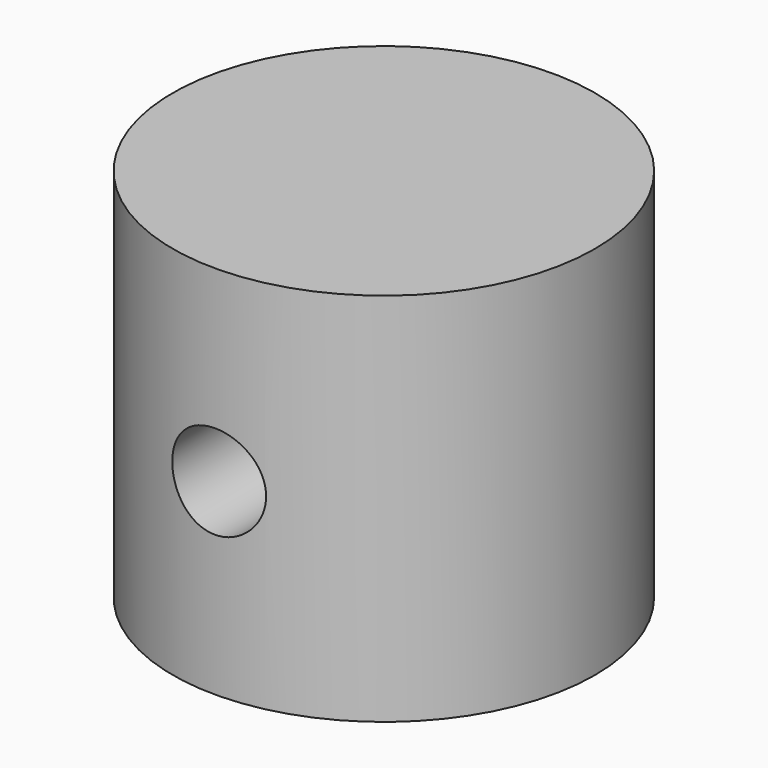
from build123d import *

# Parameters (mm, degrees)
F0_R     = 9
F0_R_2   = 7.5
F0_R_3   = 5
F1_DEPTH = 16
F2_DEPTH = 14
F3_DEPTH = 4
F4_R     = 2
F5_DEPTH = 12.5


with BuildPart() as f1:
    # F0 (on Top) → F1 (new body)
    with BuildSketch(Plane.XY):
        Circle(F0_R)
        Circle(F0_R_2, mode=Mode.SUBTRACT)
        Circle(F0_R_2)
        Circle(F0_R_3, mode=Mode.SUBTRACT)
        Circle(F0_R_3)
    extrude(amount=F1_DEPTH)

    # F0 (on Top) → F2 (cut)
    with BuildSketch(Plane.XY):
        Circle(F0_R_3)
    extrude(amount=F2_DEPTH, mode=Mode.SUBTRACT)

    # F0 (on Top) → F3 (cut)
    with BuildSketch(Plane.XY):
        Circle(F0_R_2)
        Circle(F0_R_3, mode=Mode.SUBTRACT)
    extrude(amount=F3_DEPTH, mode=Mode.SUBTRACT)

    # F4 (on Front) → F5 (cut, symmetric)
    with BuildSketch(Plane.XZ):
        with Locations((0, 8)):
            Circle(F4_R)
    extrude(amount=F5_DEPTH, both=True, mode=Mode.SUBTRACT)


solid = f1.part
